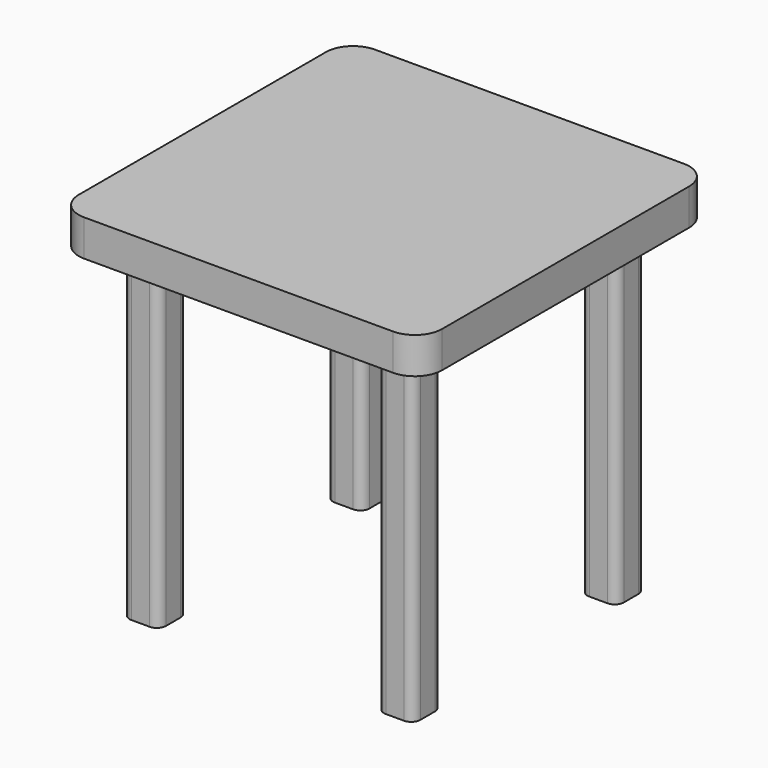
from build123d import *

# Parameters (mm, degrees)
F1_DEPTH = 40
F6_DEPTH = 360
F7_DEPTH = 360
F8_DEPTH = 360
F9_DEPTH = 360


with BuildPart() as f1:
    # F0 (on Top) → F1 (new body)
    with BuildSketch(Plane.XY):
        with BuildLine():
            Line((178.077192, 137.014396), (-161.922808, 137.014396))
            ThreePointArc((-161.922808, 137.014396), (-183.136011, 128.227599), (-191.922808, 107.014396))
            Line((-191.922808, 107.014396), (-191.922808, -232.985604))
            ThreePointArc((-191.922808, -232.985604), (-183.136011, -254.198808), (-161.922808, -262.985604))
            Line((-161.922808, -262.985604), (178.077192, -262.985604))
            ThreePointArc((178.077192, -262.985604), (199.290396, -254.198808), (208.077192, -232.985604))
            Line((208.077192, -232.985604), (208.077192, 107.014396))
            ThreePointArc((208.077192, 107.014396), (199.290396, 128.227599), (178.077192, 137.014396))
        make_face()
    extrude(amount=F1_DEPTH)

    # F2 (on face) → F6 (join)
    with BuildSketch(Plane(origin=(0, 0, 0), x_dir=(1, 0, 0), z_dir=(0, 0, -1))):
        with BuildLine():
            Line((-121.922808, -57.014396), (-141.922808, -57.014396))
            ThreePointArc((-141.922808, -57.014396), (-148.993876, -59.943328), (-151.922808, -67.014396))
            Line((-151.922808, -67.014396), (-151.922808, -87.014396))
            ThreePointArc((-151.922808, -87.014396), (-148.993876, -94.085464), (-141.922808, -97.014396))
            Line((-141.922808, -97.014396), (-121.922808, -97.014396))
            ThreePointArc((-121.922808, -97.014396), (-114.85174, -94.085464), (-111.922808, -87.014396))
            Line((-111.922808, -87.014396), (-111.922808, -67.014396))
            ThreePointArc((-111.922808, -67.014396), (-114.85174, -59.943328), (-121.922808, -57.014396))
        make_face()
    extrude(amount=F6_DEPTH)

    # F5 (on face) → F7 (join)
    with BuildSketch(Plane(origin=(0, 0, 0), x_dir=(1, 0, 0), z_dir=(0, 0, -1))):
        with BuildLine():
            Line((158.077192, -57.014396), (138.077192, -57.014396))
            ThreePointArc((138.077192, -57.014396), (131.006124, -59.943328), (128.077192, -67.014396))
            Line((128.077192, -67.014396), (128.077192, -87.014396))
            ThreePointArc((128.077192, -87.014396), (131.006124, -94.085464), (138.077192, -97.014396))
            Line((138.077192, -97.014396), (158.077192, -97.014396))
            ThreePointArc((158.077192, -97.014396), (165.14826, -94.085464), (168.077192, -87.014396))
            Line((168.077192, -87.014396), (168.077192, -67.014396))
            ThreePointArc((168.077192, -67.014396), (165.14826, -59.943328), (158.077192, -57.014396))
        make_face()
    extrude(amount=F7_DEPTH)

    # F3 (on face) → F8 (join)
    with BuildSketch(Plane(origin=(0, 0, 0), x_dir=(1, 0, 0), z_dir=(0, 0, -1))):
        with BuildLine():
            Line((-121.922808, 222.985604), (-141.922808, 222.985604))
            ThreePointArc((-141.922808, 222.985604), (-148.993876, 220.056672), (-151.922808, 212.985604))
            Line((-151.922808, 212.985604), (-151.922808, 192.985604))
            ThreePointArc((-151.922808, 192.985604), (-148.993876, 185.914536), (-141.922808, 182.985604))
            Line((-141.922808, 182.985604), (-121.922808, 182.985604))
            ThreePointArc((-121.922808, 182.985604), (-114.85174, 185.914536), (-111.922808, 192.985604))
            Line((-111.922808, 192.985604), (-111.922808, 212.985604))
            ThreePointArc((-111.922808, 212.985604), (-114.85174, 220.056672), (-121.922808, 222.985604))
        make_face()
    extrude(amount=F8_DEPTH)

    # F4 (on Top) → F9 (join)
    with BuildSketch(Plane.XY):
        with BuildLine():
            ThreePointArc((128.077192, -212.985604), (131.006124, -220.056672), (138.077192, -222.985604))
            Line((138.077192, -222.985604), (158.077192, -222.985604))
            ThreePointArc((158.077192, -222.985604), (165.14826, -220.056672), (168.077192, -212.985604))
            Line((168.077192, -212.985604), (168.077192, -192.985604))
            ThreePointArc((168.077192, -192.985604), (165.14826, -185.914536), (158.077192, -182.985604))
            Line((158.077192, -182.985604), (138.077192, -182.985604))
            ThreePointArc((138.077192, -182.985604), (131.006124, -185.914536), (128.077192, -192.985604))
            Line((128.077192, -192.985604), (128.077192, -212.985604))
        make_face()
    extrude(amount=-F9_DEPTH)


solid = f1.part
